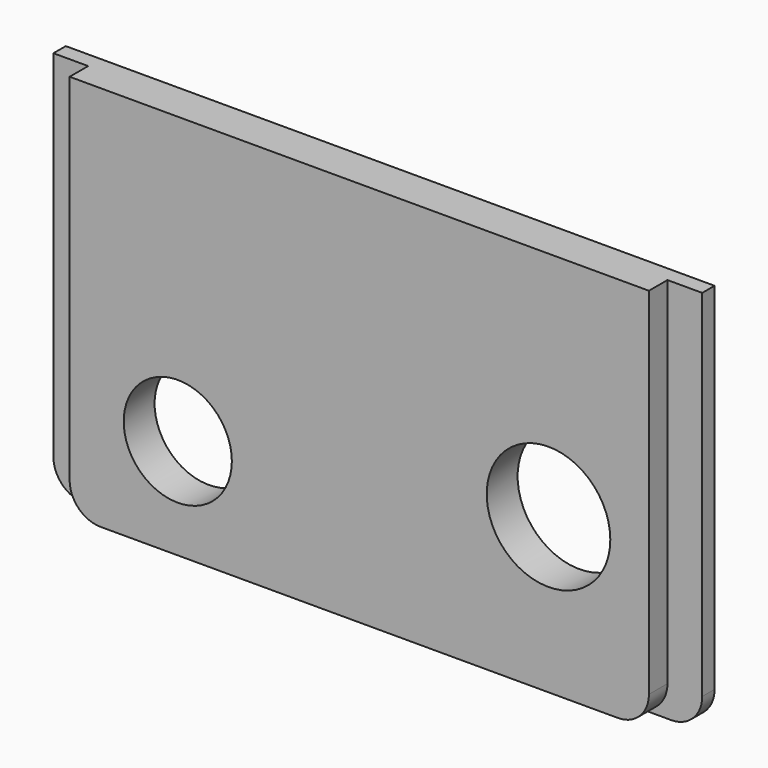
from build123d import *

# Parameters (mm, degrees)
F1_DEPTH = 1
F3_DEPTH = 1.5
F4_R     = 4
F4_R_2   = 3.5
F5_DEPTH = 2.5


with BuildPart() as f1:
    # F0 (on Front) → F1 (new body)
    with BuildSketch(Plane.XZ):
        with BuildLine():
            ThreePointArc((0, 2), (0.5857864376, 0.5857864376), (2, 0))
            Line((2, 0), (40, 0))
            ThreePointArc((40, 0), (41.4142135624, 0.5857864376), (42, 2))
            Line((42, 2), (42, 25))
            Line((42, 25), (0, 25))
            Line((0, 25), (0, 2))
        make_face()
    extrude(amount=F1_DEPTH)

    # F2 (on face) → F3 (join)
    with BuildSketch(Plane.XZ.offset(1)):
        with BuildLine():
            Line((39.75, 25), (2.25, 25))
            Line((2.25, 25), (2.25, 2))
            ThreePointArc((2.25, 2), (2.8357864376, 0.5857864376), (4.25, 0))
            Line((4.25, 0), (37.75, 0))
            ThreePointArc((37.75, 0), (39.1642135624, 0.5857864376), (39.75, 2))
            Line((39.75, 2), (39.75, 25))
        make_face()
    extrude(amount=F3_DEPTH)

    # F4 (on face) → F5 (cut, through all)
    with BuildSketch(Plane.XZ.offset(2.5)):
        with Locations((33.25, 10)):
            Circle(F4_R)
        with Locations((9.25, 6.5)):
            Circle(F4_R_2)
    extrude(amount=-F5_DEPTH, mode=Mode.SUBTRACT)


solid = f1.part
